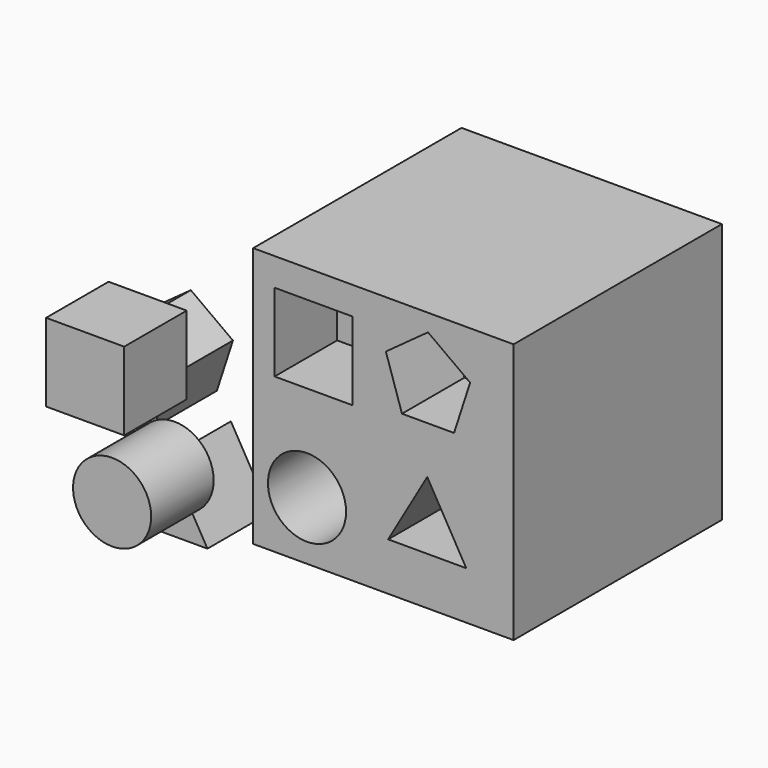
from build123d import *

# Parameters (mm, degrees)
F0_W      = 127
F0_H      = 127
F1_DEPTH  = 63.5
F2_W      = 38.1
F2_H      = 38.1
F3_DEPTH  = 38.1
F5_DEPTH  = 38.1
F7_DEPTH  = 38.1
F8_R      = 19.05
F9_DEPTH  = 38.1
F10_W     = 38.1
F10_H     = 38.1
F11_DEPTH = 38.1
F13_DEPTH = 38.1
F15_DEPTH = 38.1
F16_R     = 19.05
F17_DEPTH = 38.1


with BuildPart() as f1:
    # F0 (on Front) → F1 (new body, symmetric)
    with BuildSketch(Plane.XZ):
        with Locations((7.829141, 8.251459)):
            Rectangle(F0_W, F0_H)
    extrude(amount=F1_DEPTH, both=True)

    # F2 (on face) → F3 (cut)
    with BuildSketch(Plane.XZ.offset(63.5)):
        with Locations((-26.160787, 39.100661)):
            Rectangle(F2_W, F2_H)
    extrude(amount=-F3_DEPTH, mode=Mode.SUBTRACT)

    # F4 (on face) → F5 (cut)
    with BuildSketch(Plane.XZ.offset(63.5)):
        Polygon((16.897972, 24.259223), (42.297972, 24.259223), (50.147003, 48.416059), (29.597972, 63.345804), (9.04894, 48.416059), align=None)
    extrude(amount=-F5_DEPTH, mode=Mode.SUBTRACT)

    # F6 (on face) → F7 (cut)
    with BuildSketch(Plane.XZ.offset(63.5)):
        Polygon((10.16606, -31.869634), (48.26606, -31.869634), (29.21606, 1.125934), align=None)
    extrude(amount=-F7_DEPTH, mode=Mode.SUBTRACT)

    # F8 (on face) → F9 (cut)
    with BuildSketch(Plane.XZ.offset(63.5)):
        with Locations((-29.407017, -26.733652)):
            Circle(F8_R)
    extrude(amount=-F9_DEPTH, mode=Mode.SUBTRACT)


with BuildPart() as f11:
    # F10 (on face) → F11 (new body)
    with BuildSketch(Plane.XZ.offset(63.5)):
        with Locations((-107.125565, 15.344292)):
            Rectangle(F10_W, F10_H)
    extrude(amount=F11_DEPTH)


with BuildPart() as f13:
    # F12 (on Front) → F13 (new body)
    with BuildSketch(Plane.XZ):
        Polygon((-149.575996, -37.594398), (-124.175996, -37.594398), (-116.326964, -13.437562), (-136.875996, 1.492183), (-157.425027, -13.437562), align=None)
    extrude(amount=F13_DEPTH)


with BuildPart() as f15:
    # F14 (on Front) → F15 (new body)
    with BuildSketch(Plane.XZ):
        Polygon((-117.325026, -48.471496), (-136.375026, -81.467063), (-98.275026, -81.467063), align=None)
    extrude(amount=F15_DEPTH)


with BuildPart() as f17:
    # F16 (on face) → F17 (new body)
    with BuildSketch(Plane.XZ.offset(63.5)):
        with Locations((-93.97468, -34.257043)):
            Circle(F16_R)
    extrude(amount=F17_DEPTH)


solid = Compound([f1.part, f11.part, f13.part, f15.part, f17.part])
